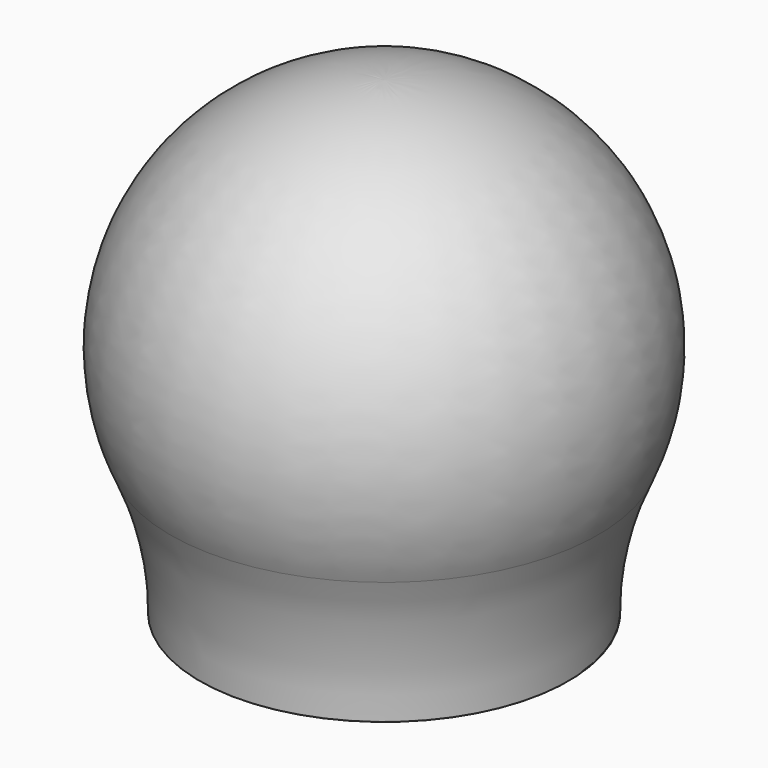
from build123d import *

# Parameters (mm, degrees)
F3_DEPTH = 10.570714
F4_R     = 10


with BuildPart() as f1:
    # F0 (on Front) → F1 (revolve)
    with BuildSketch(Plane.XZ):
        with BuildLine():
            Line((0, 10.570714), (0, 14))
            ThreePointArc((0, 14), (-6.297257, 10.056887), (-5.5, 2.669873))
            Line((-5.5, 2.669873), (-5.5, 0))
            Line((-5.5, 0), (-3.5, 0))
            Line((-3.5, 0), (-3.5, 10.570714))
            Line((-3.5, 10.570714), (0, 10.570714))
        make_face()
    revolve(axis=Axis((0, 0, 5.285357), (0, 0, 1)))

    # F2 (on face) → F3 (cut, through all)
    with BuildSketch(Plane(origin=(0, 0, 0), x_dir=(1, 0, 0), z_dir=(0, 0, -1))):
        with BuildLine():
            Line((-2.020726, -3.5), (0, -3.5))
            ThreePointArc((0, -3.5), (-1.75, -3.031089), (-3.031089, -1.75))
            Line((-3.031089, -1.75), (-2.020726, -3.5))
        make_face()
        with BuildLine():
            Line((-4.041452, 0), (-3.031089, -1.75))
            ThreePointArc((-3.031089, -1.75), (-3.5, 0), (-3.031089, 1.75))
            Line((-3.031089, 1.75), (-4.041452, 0))
        make_face()
        with BuildLine():
            Line((-2.020726, 3.5), (-3.031089, 1.75))
            ThreePointArc((-3.031089, 1.75), (-1.75, 3.031089), (0, 3.5))
            Line((0, 3.5), (-2.020726, 3.5))
        make_face()
        with BuildLine():
            ThreePointArc((0, 3.5), (1.75, 3.031089), (3.031089, 1.75))
            Line((3.031089, 1.75), (2.020726, 3.5))
            Line((2.020726, 3.5), (0, 3.5))
        make_face()
        with BuildLine():
            ThreePointArc((3.5, 0), (3.38074, -0.905867), (3.031089, -1.75))
            Line((3.031089, -1.75), (4.041452, 0))
            Line((4.041452, 0), (3.031089, 1.75))
            ThreePointArc((3.031089, 1.75), (3.38074, 0.905867), (3.5, 0))
        make_face()
        with BuildLine():
            Line((0, -3.5), (2.020726, -3.5))
            Line((2.020726, -3.5), (3.031089, -1.75))
            ThreePointArc((3.031089, -1.75), (1.75, -3.031089), (0, -3.5))
        make_face()
    extrude(amount=-F3_DEPTH, mode=Mode.SUBTRACT)

    # F4
    f4_edges = [f1.edges().sort_by_distance(p)[0] for p in [
        (5.5, 0, 2.669873),
    ]]
    fillet(f4_edges, radius=F4_R)


solid = f1.part
